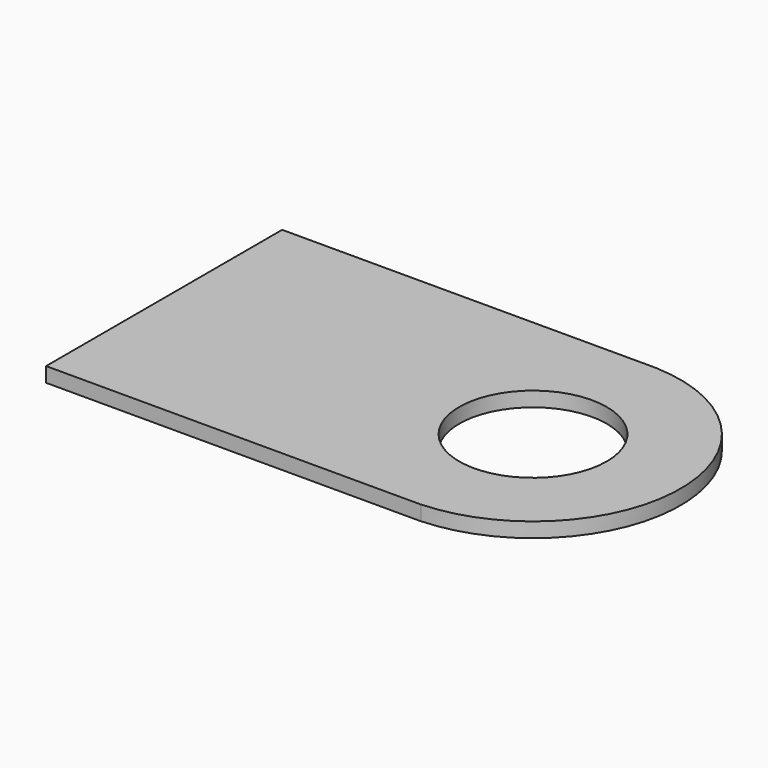
from build123d import *

# Parameters (mm, degrees)
CYLINDER056_R     = 0.5
CYLINDER056_DEPTH = 0.1
BOX021_W          = 2.54
BOX021_H          = 2
BOX021_DEPTH      = 0.1
CYLINDER055_R     = 0.5
CYLINDER055_DEPTH = 0.1
CYLINDER054_R     = 1
CYLINDER054_DEPTH = 0.1


with BuildPart() as cylinder056:
    # Cylinder056 → Cylinder056 (new body)
    with BuildSketch(Plane.XY.offset(1)):
        Circle(CYLINDER056_R)
    extrude(amount=CYLINDER056_DEPTH)


with BuildPart() as cut038:
    # Box021 → Box021 (new body)
    with BuildSketch(Plane(origin=(-2.5, -1, 1), x_dir=(1, 0, 0), z_dir=(0, 0, 1))):
        with Locations((1.27, 1)):
            Rectangle(BOX021_W, BOX021_H)
    extrude(amount=BOX021_DEPTH)

    # Cut038: cut Cylinder056
    add(cylinder056.part, mode=Mode.SUBTRACT)


with BuildPart() as cylinder055:
    # Cylinder055 → Cylinder055 (new body)
    with BuildSketch(Plane.XY.offset(1)):
        Circle(CYLINDER055_R)
    extrude(amount=CYLINDER055_DEPTH)


with BuildPart() as fusion018:
    # Cylinder054 → Cylinder054 (new body)
    with BuildSketch(Plane.XY.offset(1)):
        Circle(CYLINDER054_R)
    extrude(amount=CYLINDER054_DEPTH)

    # Cut037: cut Cylinder055
    add(cylinder055.part, mode=Mode.SUBTRACT)

    # Fusion018: union Cut038
    add(cut038.part)


with BuildPart() as fusion018_1:
    # Fusion018 placement: moved
    add(fusion018.part.moved(Location((0, -45.72, 5.5))))


solid = fusion018_1.part
